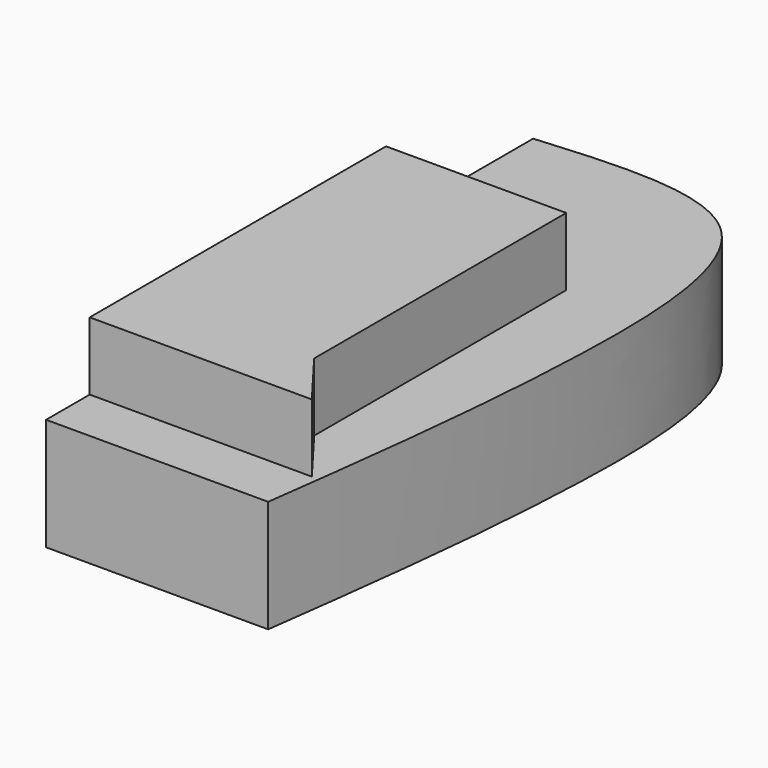
from build123d import *

# Parameters (mm, degrees)
F1_DEPTH = 25.4
F3_DEPTH = 15.3789725155


with BuildPart() as f1:
    # F0 (on Top) → F1 (new body)
    with BuildSketch(Plane.XY):
        with BuildLine():
            add(Edge.make_bspline(
                [(0, 59.6015304327), (18.5918983279, 61.1237618386), (57.1016118421, 64.2767857436), (59.9129164586, -4.4972847086), (53.6502329773, -52.138947783), (50.235748291, -78.1137049198)],
                knots=[0, 0, 0, 0, 0.2980063052, 0.6172653932, 1, 1, 1, 1], degree=3))
            Line((0, 59.6015304327), (0, -78.1137049198))
            Line((0, -78.1137049198), (50.235748291, -78.1137049198))
        make_face()
        with BuildLine():
            add(Edge.make_bspline(
                [(0, 59.6015304327), (18.5918983279, 61.1237618386), (57.1016118421, 64.2767857436), (59.9129164586, -4.4972847086), (53.6502329773, -52.138947783), (50.235748291, -78.1137049198)],
                knots=[0, 0, 0, 0, 0.2980063052, 0.6172653932, 1, 1, 1, 1], degree=3))
            Line((0, 59.6015304327), (0, -78.1137049198))
            Line((0, -78.1137049198), (50.235748291, -78.1137049198))
        make_face()
    extrude(amount=F1_DEPTH)

    # F2 (on face) → F3 (join)
    with BuildSketch(Plane.XY.offset(25.4)):
        Polygon((50.235748291, -65.7770857215), (40.7630354166, -53.2707050443), (40.7630354166, 17.9864894599), (0, 17.9864894599), (0, -65.7770857215), align=None)
    extrude(amount=F3_DEPTH)


solid = f1.part
